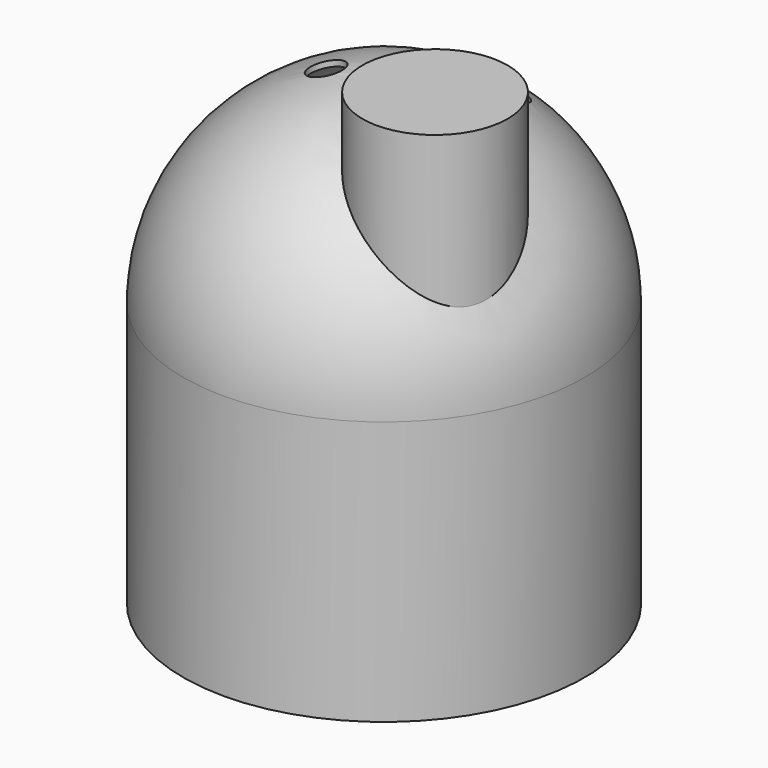
from build123d import *

# Parameters (mm, degrees)
F1_ANGLE = 180
F3_D     = 76.2
F4_R     = 165.2325510481
F5_DEPTH = 543.62825
F6_DEPTH = 601.10694


with BuildPart() as f1:
    # F0 (on Top) → F1 (revolve)
    with BuildSketch(Plane.XY):
        with BuildLine():
            Line((0, -444.5), (0, -457.2))
            ThreePointArc((0, -457.2), (457.2, 0), (0, 457.2))
            Line((0, 457.2), (0, 444.5))
            ThreePointArc((0, 444.5), (444.5, 0), (0, -444.5))
        make_face()
    revolve(axis=Axis((0, 0, 0), (0, -1, 0)), revolution_arc=F1_ANGLE)

    # F3 (through all)
    with Locations(Plane(origin=(0, 0, 0), x_dir=(1, 0, 0), z_dir=(0, 0, -1))):
        with Locations((-116.6023164988, 18.9869366586), (129.3481886387, -195.9198415279), (215.2733206749, 124.0054294467)):
            Hole(F3_D / 2)

    # F4 (on Top) → F5 (join)
    with BuildSketch(Plane.XY):
        with Locations((215.2733206749, -124.0054294467)):
            Circle(F4_R)
    extrude(amount=F5_DEPTH)

    # F6 (add): a face of the model
    f6_faces = [f1.faces().sort_by_distance(p)[0] for p in [
        (445.7931568814, 0, 0),
    ]]
    extrude(f6_faces, amount=F6_DEPTH)


solid = f1.part
